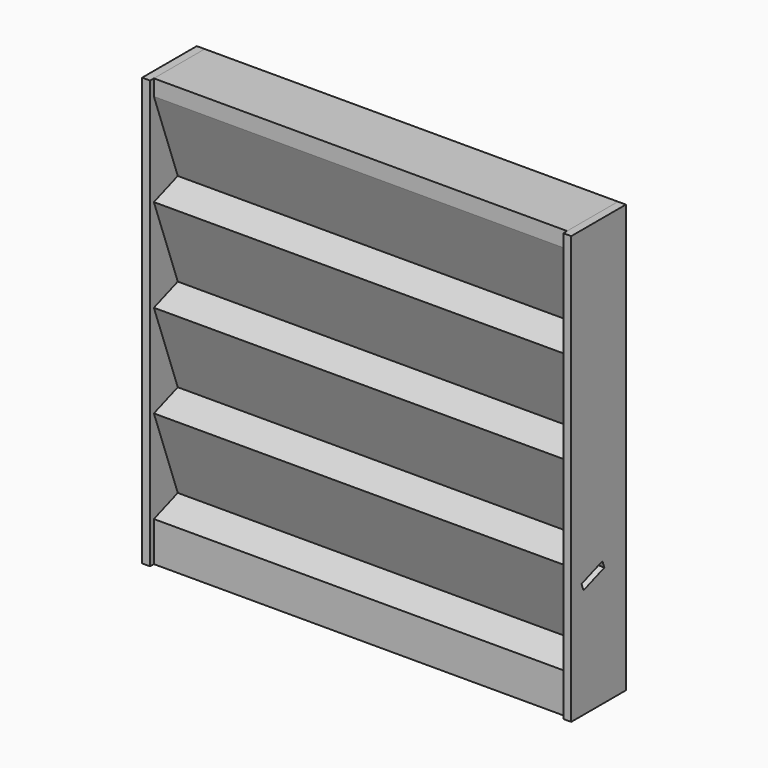
from build123d import *

# Parameters (mm, degrees)
F3_DEPTH = 260
F4_DEPTH = 5


with BuildPart() as f3:
    # F2 (on Right) → F3 (new body)
    with BuildSketch(Plane.YZ):
        Polygon((3, 0), (43, 0), (43, 269.0939982144), (3, 269.0939982144), (3, 259.0939982144), (21.7958684698, 207.4053599225), (3, 200.5704986608), (21.7958684698, 148.8818603689), (3, 142.0469991072), (21.7958684698, 90.3583608153), (3, 83.5234995536), (21.7958684698, 31.8348612617), (3, 25), align=None)
        Polygon((8.1047870049, 73.1430540123), (24.5511719159, 79.1235576164), (26.0890156998, 74.8944872107), (9.6426307887, 68.9139836066), align=None, mode=Mode.SUBTRACT)
    extrude(amount=F3_DEPTH)


with BuildPart() as f4:
    # F2 (on Right) → F4 (new body)
    with BuildSketch(Plane.YZ):
        Polygon((0, 0), (3, 0), (3, 25), (21.7958684698, 31.8348612617), (3, 83.5234995536), (21.7958684698, 90.3583608153), (3, 142.0469991072), (21.7958684698, 148.8818603689), (3, 200.5704986608), (21.7958684698, 207.4053599225), (3, 259.0939982144), (3, 269.0939982144), (0, 269.0939982144), align=None)
        Polygon((3, 0), (43, 0), (43, 269.0939982144), (3, 269.0939982144), (3, 259.0939982144), (21.7958684698, 207.4053599225), (3, 200.5704986608), (21.7958684698, 148.8818603689), (3, 142.0469991072), (21.7958684698, 90.3583608153), (3, 83.5234995536), (21.7958684698, 31.8348612617), (3, 25), align=None)
        Polygon((8.1047870049, 73.1430540123), (24.5511719159, 79.1235576164), (26.0890156998, 74.8944872107), (9.6426307887, 68.9139836066), align=None, mode=Mode.SUBTRACT)
    extrude(amount=-F4_DEPTH)


with BuildPart() as f5_1:
    # F5: copy of F4
    add(f4.part.moved(Location((265, 0, 0))))


solid = Compound([f3.part, f4.part, f5_1.part])
